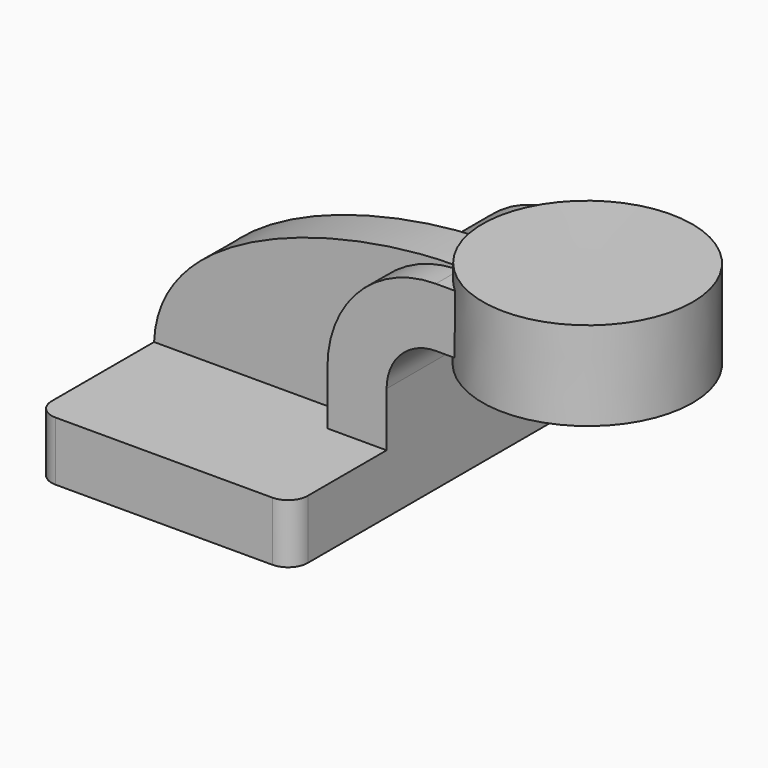
from build123d import *

# Parameters (mm, degrees)
F1_DEPTH = 63.5
F2_DEPTH = 25.4
F3_DEPTH = 15.875
F5_R     = 6.35


with BuildPart() as f1:
    # F0 (on Front) → F1 (new body, symmetric)
    with BuildSketch(Plane.XZ):
        Polygon((22.225, 9.525), (-41.275, 9.525), (-41.275, -9.525), (41.275, -9.525), (41.275, 9.525), align=None)
    extrude(amount=F1_DEPTH, both=True)

    # F0 (on Front) → F2 (join, symmetric)
    with BuildSketch(Plane.XZ):
        with BuildLine():
            Line((22.225, 27.0002), (22.225, 9.525))
            Line((22.225, 9.525), (41.275, 9.525))
            Line((41.275, 9.525), (41.275, 27.0002))
            ThreePointArc((41.275, 27.0002), (45.9246798487, 38.2255201513), (57.15, 42.8752))
            Line((57.15, 42.8752), (68.7600185826, 42.8752))
            Line((68.7600185826, 42.8752), (85.6484008946, 42.8752))
            Line((85.6484008946, 42.8752), (85.7097128786, 61.9252))
            Line((85.7097128786, 61.9252), (68.7600185826, 61.9252))
            Line((68.7600185826, 61.9252), (57.15, 61.9252))
            ThreePointArc((57.15, 61.9252), (32.4542956671, 51.6959043329), (22.225, 27.0002))
        make_face()
    extrude(amount=F2_DEPTH, both=True)

    # F0 (on Front) → F3 (join)
    with BuildSketch(Plane.XZ):
        with BuildLine():
            add(Edge.make_bspline(
                [(-41.275, 9.525), (-39.5817421377, 51.6913831234), (38.1245203316, 67.0281425118), (68.7600185826, 61.9252)],
                knots=[0, 0, 0, 0, 121.8748795877, 121.8748795877, 121.8748795877, 121.8748795877], degree=3))
            Line((-41.275, 9.525), (22.225, 9.525))
            Line((22.225, 9.525), (22.225, 27.0002))
            ThreePointArc((22.225, 27.0002), (32.4542956671, 51.6959043329), (57.15, 61.9252))
            Line((57.15, 61.9252), (68.7600185826, 61.9252))
        make_face()
    extrude(amount=F3_DEPTH)

    # F0 (on Front) → F4 (revolve)
    with BuildSketch(Plane.XZ):
        Polygon((85.725, 66.675), (85.7097128786, 61.9252), (85.6484008946, 42.8752), (85.6330320239, 38.1), (119.5600185826, 38.1), (119.5600185826, 66.675), align=None)
    revolve(axis=Axis((85.679016012, 0, 52.3875), (0.0032184602, 0, 0.9999948207)))

    # F5
    f5_edges = [f1.edges().sort_by_distance(p)[0] for p in [
        (-41.275, -63.5, 0),
        (41.275, -63.5, 0),
        (41.275, 63.5, 0),
        (-41.275, 63.5, 0),
    ]]
    fillet(f5_edges, radius=F5_R)


solid = f1.part
